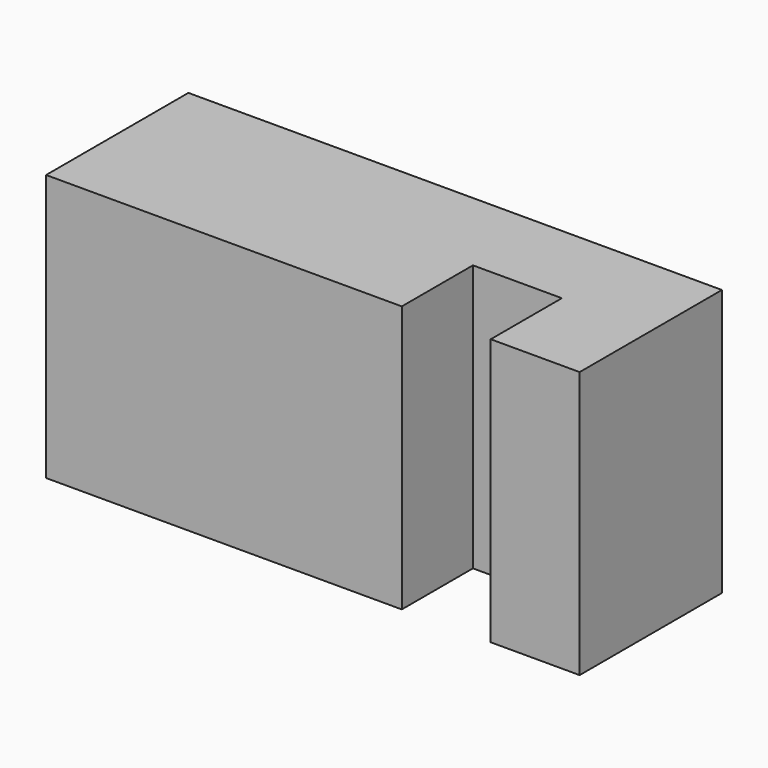
from build123d import *

# Parameters (mm, degrees)
F0_W     = 25.4
F0_H     = 76.2
F1_DEPTH = 25.4
F0_W_2   = 101.6
F2_DEPTH = 50.8


with BuildPart() as f1:
    # F0 (on Front) → F1 (new body)
    with BuildSketch(Plane.XZ):
        with Locations((52.476159, 12.908591)):
            Rectangle(F0_W, F0_H)
    extrude(amount=F1_DEPTH)

    # F0 (on Front) → F2 (join)
    with BuildSketch(Plane.XZ):
        with Locations((-11.023841, 12.908591)):
            Rectangle(F0_W_2, F0_H)
        with Locations((77.876159, 12.908591)):
            Rectangle(F0_W, F0_H)
    extrude(amount=F2_DEPTH)


solid = f1.part
